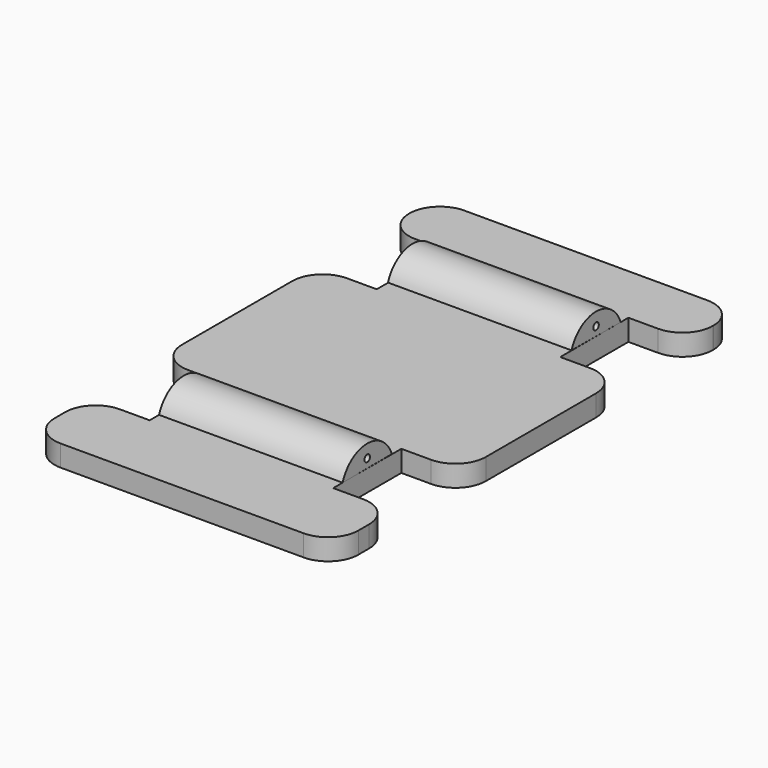
from build123d import *

# Parameters (mm, degrees)
F1_DEPTH = 1.778
F2_R     = 0.577688
F2_R_2   = 0.582255
F3_DEPTH = 15.3416
F4_R     = 5.08


with BuildPart() as f1:
    # F0 (on Top) → F1 (new body, symmetric)
    with BuildSketch(Plane.XY):
        Polygon((-25.4, -42.175161), (25.4, -42.175161), (25.4, -29.790713), (15.341625, -29.790713), (15.341625, -15.554283), (25.4, -15.554283), (25.4, 17.656827), (15.341625, 17.656827), (15.341625, 31.893248), (25.4, 31.893248), (25.4, 42.175161), (-25.4, 42.175161), (-25.4, 31.893248), (-15.341633, 31.893248), (-15.341633, 17.65682), (-25.4, 17.65682), (-25.4, -15.554283), (-15.341625, -15.554283), (-15.341625, -29.790713), (-25.4, -29.790713), align=None)
    extrude(amount=F1_DEPTH, both=True)

    # F2 (on Right) → F3 (join, symmetric)
    with BuildSketch(Plane.YZ):
        with BuildLine():
            Line((-27.829766, 1.773621), (-17.552791, 1.808458))
            ThreePointArc((-17.552791, 1.808458), (-22.703696, 5.454035), (-27.829766, 1.773621))
        make_face()
        with Locations((-22.68527, 3.27162)):
            Circle(F2_R, mode=Mode.SUBTRACT)
        with BuildLine():
            Line((20.001708, 1.808458), (30.278683, 1.773621))
            ThreePointArc((30.278683, 1.773621), (25.152562, 5.439228), (20.001708, 1.808458))
        make_face()
        with Locations((25.134111, 3.27162)):
            Circle(F2_R_2, mode=Mode.SUBTRACT)
    extrude(amount=F3_DEPTH, both=True)

    # F4
    f4_edges = [f1.edges().sort_by_distance(p)[0] for p in [
        (25.4, -42.175161, 0),
        (-25.4, -42.175161, 0),
        (-25.4, -29.790713, 0),
        (-25.4, -15.554283, 0),
        (-25.4, 17.65682, 0),
        (-25.4, 31.893248, 0),
        (-25.4, 42.175161, 0),
        (25.4, 42.175161, 0),
        (25.4, 17.656827, 0),
        (25.4, 31.893248, 0),
        (25.4, -29.790713, 0),
        (25.4, -15.554283, 0),
    ]]
    fillet(f4_edges, radius=F4_R)


solid = f1.part
